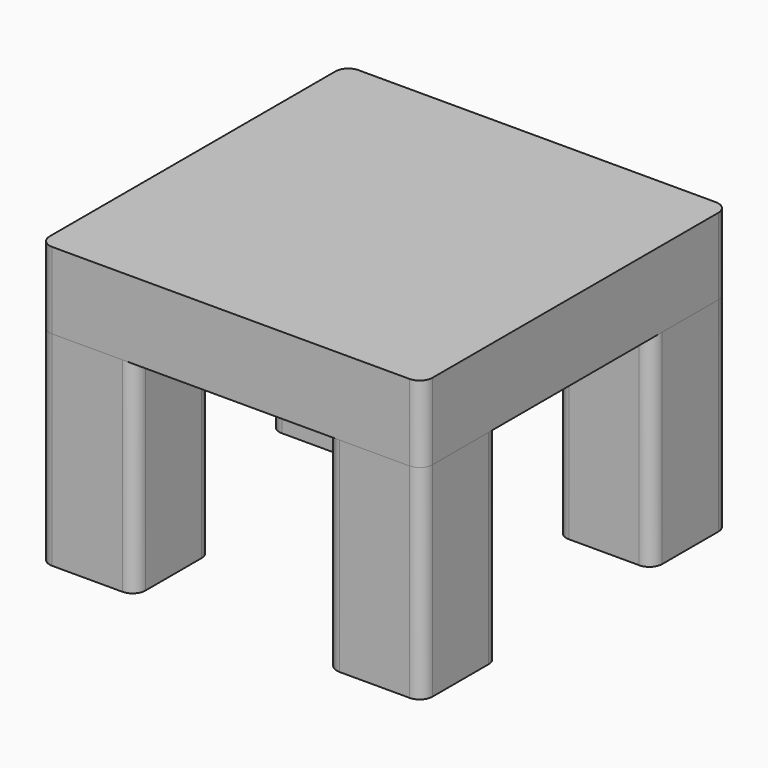
from build123d import *

# Parameters (mm, degrees)
F1_DEPTH = 80
F3_DEPTH = 30


with BuildPart() as f1:
    # F0 (on Top) → F1 (new body)
    with BuildSketch(Plane.XY):
        with BuildLine():
            Line((37.5, 70), (37.5, 42.5))
            ThreePointArc((37.5, 42.5), (38.964466, 38.964466), (42.5, 37.5))
            Line((42.5, 37.5), (70, 37.5))
            ThreePointArc((70, 37.5), (73.535534, 38.964466), (75, 42.5))
            Line((75, 42.5), (75, 70))
            ThreePointArc((75, 70), (73.535534, 73.535534), (70, 75))
            Line((70, 75), (42.5, 75))
            ThreePointArc((42.5, 75), (38.964466, 73.535534), (37.5, 70))
        make_face()
        with BuildLine():
            Line((-70, 37.5), (-42.5, 37.5))
            ThreePointArc((-42.5, 37.5), (-38.964466, 38.964466), (-37.5, 42.5))
            Line((-37.5, 42.5), (-37.5, 70))
            ThreePointArc((-37.5, 70), (-38.964466, 73.535534), (-42.5, 75))
            Line((-42.5, 75), (-70, 75))
            ThreePointArc((-70, 75), (-73.535534, 73.535534), (-75, 70))
            Line((-75, 70), (-75, 42.5))
            ThreePointArc((-75, 42.5), (-73.535534, 38.964466), (-70, 37.5))
        make_face()
        with BuildLine():
            ThreePointArc((-37.5, -42.5), (-38.964466, -38.964466), (-42.5, -37.5))
            Line((-42.5, -37.5), (-70, -37.5))
            ThreePointArc((-70, -37.5), (-73.535534, -38.964466), (-75, -42.5))
            Line((-75, -42.5), (-75, -70))
            ThreePointArc((-75, -70), (-73.535534, -73.535534), (-70, -75))
            Line((-70, -75), (-42.5, -75))
            ThreePointArc((-42.5, -75), (-38.964466, -73.535534), (-37.5, -70))
            Line((-37.5, -70), (-37.5, -42.5))
        make_face()
        with BuildLine():
            Line((-48.75, -66.25), (-56.25, -66.25))
            Line((-56.25, -66.25), (-63.75, -66.25))
            ThreePointArc((-63.75, -66.25), (-67.285534, -64.785534), (-68.75, -61.25))
            Line((-68.75, -61.25), (-68.75, -51.25))
            ThreePointArc((-68.75, -51.25), (-67.285534, -47.714466), (-63.75, -46.25))
            Line((-63.75, -46.25), (-48.75, -46.25))
            ThreePointArc((-48.75, -46.25), (-45.214466, -47.714466), (-43.75, -51.25))
            Line((-43.75, -51.25), (-43.75, -61.25))
            ThreePointArc((-43.75, -61.25), (-45.214466, -64.785534), (-48.75, -66.25))
        make_face(mode=Mode.SUBTRACT)
        with BuildLine():
            Line((-63.75, -66.25), (-56.25, -66.25))
            Line((-56.25, -66.25), (-48.75, -66.25))
            ThreePointArc((-48.75, -66.25), (-45.214466, -64.785534), (-43.75, -61.25))
            Line((-43.75, -61.25), (-43.75, -51.25))
            ThreePointArc((-43.75, -51.25), (-45.214466, -47.714466), (-48.75, -46.25))
            Line((-48.75, -46.25), (-63.75, -46.25))
            ThreePointArc((-63.75, -46.25), (-67.285534, -47.714466), (-68.75, -51.25))
            Line((-68.75, -51.25), (-68.75, -61.25))
            ThreePointArc((-68.75, -61.25), (-67.285534, -64.785534), (-63.75, -66.25))
        make_face()
        with BuildLine():
            Line((70, -37.5), (42.5, -37.5))
            ThreePointArc((42.5, -37.5), (38.964466, -38.964466), (37.5, -42.5))
            Line((37.5, -42.5), (37.5, -70))
            ThreePointArc((37.5, -70), (38.964466, -73.535534), (42.5, -75))
            Line((42.5, -75), (70, -75))
            ThreePointArc((70, -75), (73.535534, -73.535534), (75, -70))
            Line((75, -70), (75, -42.5))
            ThreePointArc((75, -42.5), (73.535534, -38.964466), (70, -37.5))
        make_face()
    extrude(amount=F1_DEPTH)


with BuildPart() as f3:
    # F2 (on face) → F3 (new body)
    with BuildSketch(Plane.XY.offset(80)):
        with BuildLine():
            Line((70, 75), (-42.5, 75))
            ThreePointArc((-42.5, 75), (-38.964466, 73.535534), (-37.5, 70))
            Line((-37.5, 70), (-37.5, 42.5))
            ThreePointArc((-37.5, 42.5), (-38.964466, 38.964466), (-42.5, 37.5))
            Line((-42.5, 37.5), (-70, 37.5))
            ThreePointArc((-70, 37.5), (-73.535534, 38.964466), (-75, 42.5))
            Line((-75, 42.5), (-75, -70))
            ThreePointArc((-75, -70), (-73.535534, -73.535534), (-70, -75))
            Line((-70, -75), (70, -75))
            ThreePointArc((70, -75), (73.535534, -73.535534), (75, -70))
            Line((75, -70), (75, 70))
            ThreePointArc((75, 70), (73.535534, 73.535534), (70, 75))
        make_face()
        with BuildLine():
            Line((-42.5, 75), (-70, 75))
            ThreePointArc((-70, 75), (-73.535534, 73.535534), (-75, 70))
            Line((-75, 70), (-75, 42.5))
            ThreePointArc((-75, 42.5), (-73.535534, 38.964466), (-70, 37.5))
            Line((-70, 37.5), (-42.5, 37.5))
            ThreePointArc((-42.5, 37.5), (-38.964466, 38.964466), (-37.5, 42.5))
            Line((-37.5, 42.5), (-37.5, 70))
            ThreePointArc((-37.5, 70), (-38.964466, 73.535534), (-42.5, 75))
        make_face()
    extrude(amount=F3_DEPTH)


solid = Compound([f1.part, f3.part])
